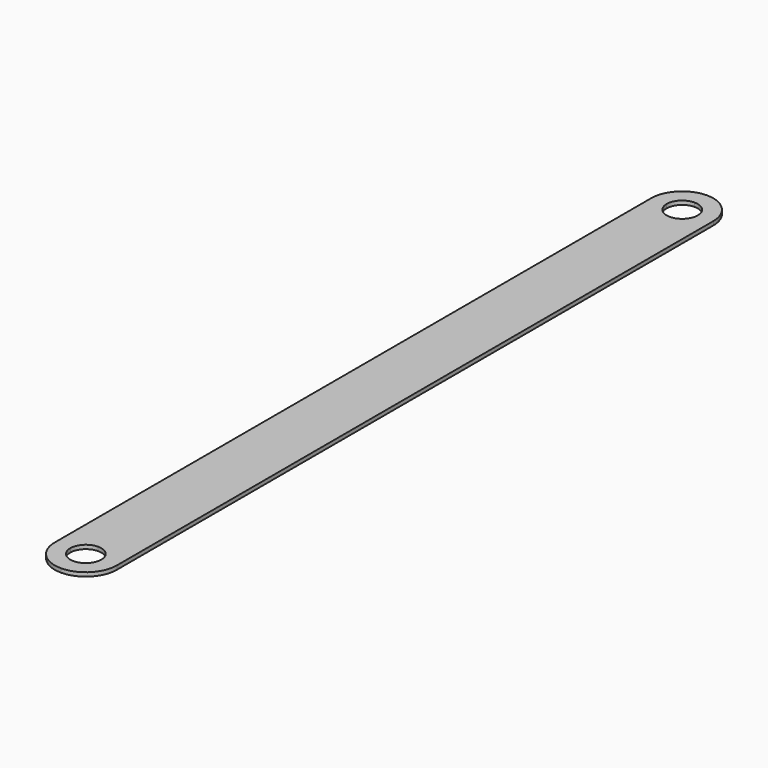
from build123d import *

# Parameters (mm, degrees)
F1_DEPTH = 1.5875


with BuildPart() as f1:
    # F0 (on Top) → F1 (new body)
    with BuildSketch(Plane.XY):
        with BuildLine():
            Line((0, -146.05), (0, 146.05))
            ThreePointArc((0, 146.05), (-4.490128, 147.909872), (-6.35, 152.4))
            Line((-6.35, 152.4), (-12.7, 152.4))
            Line((-12.7, 152.4), (-12.7, -152.4))
            Line((-12.7, -152.4), (-6.35, -152.4))
            ThreePointArc((-6.35, -152.4), (-4.490128, -147.909872), (0, -146.05))
        make_face()
        with BuildLine():
            Line((12.7, 152.4), (6.35, 152.4))
            ThreePointArc((6.35, 152.4), (4.490128, 147.909872), (0, 146.05))
            Line((0, 146.05), (0, -146.05))
            ThreePointArc((0, -146.05), (4.490128, -147.909872), (6.35, -152.4))
            Line((6.35, -152.4), (12.7, -152.4))
            Line((12.7, -152.4), (12.7, 152.4))
        make_face()
        with BuildLine():
            ThreePointArc((-6.35, 152.4), (-4.490128, 156.890128), (0, 158.75))
            Line((0, 158.75), (0, 165.1))
            ThreePointArc((0, 165.1), (-8.980256, 161.380256), (-12.7, 152.4))
            Line((-12.7, 152.4), (-6.35, 152.4))
        make_face()
        with BuildLine():
            ThreePointArc((0, 158.75), (4.490128, 156.890128), (6.35, 152.4))
            Line((6.35, 152.4), (12.7, 152.4))
            ThreePointArc((12.7, 152.4), (8.980256, 161.380256), (0, 165.1))
            Line((0, 165.1), (0, 158.75))
        make_face()
        with BuildLine():
            ThreePointArc((0, -165.1), (8.980256, -161.380256), (12.7, -152.4))
            Line((12.7, -152.4), (6.35, -152.4))
            ThreePointArc((6.35, -152.4), (4.490128, -156.890128), (0, -158.75))
            Line((0, -158.75), (0, -165.1))
        make_face()
        with BuildLine():
            ThreePointArc((-12.7, -152.4), (-8.980256, -161.380256), (0, -165.1))
            Line((0, -165.1), (0, -158.75))
            ThreePointArc((0, -158.75), (-4.490128, -156.890128), (-6.35, -152.4))
            Line((-6.35, -152.4), (-12.7, -152.4))
        make_face()
    extrude(amount=F1_DEPTH)


solid = f1.part
